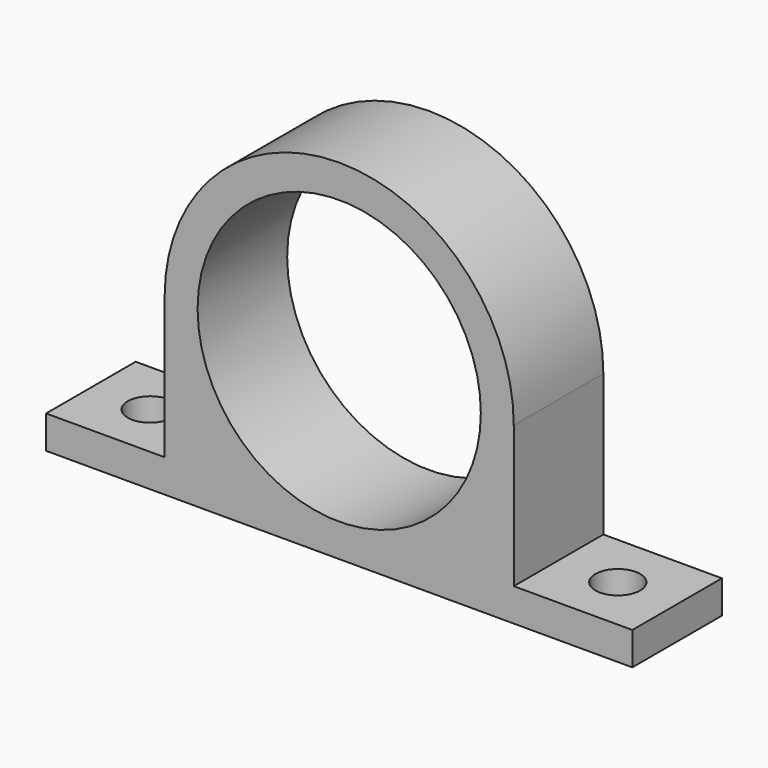
from build123d import *

# Parameters (mm, degrees)
F0_R     = 21.5
F1_DEPTH = 17
F2_R     = 3.4
F3_DEPTH = 53.001


with BuildPart() as f1:
    # F0 (on Front) → F1 (new body)
    with BuildSketch(Plane.XZ):
        with BuildLine():
            Line((-44.5, -21.5), (-44.5, -26.5))
            Line((-44.5, -26.5), (44.5, -26.5))
            Line((44.5, -26.5), (44.5, -21.5))
            Line((44.5, -21.5), (26.5, -21.5))
            Line((26.5, -21.5), (26.5, 0))
            ThreePointArc((26.5, 0), (0, 26.5), (-26.5, 0))
            Line((-26.5, 0), (-26.5, -21.5))
            Line((-26.5, -21.5), (-44.5, -21.5))
        make_face()
        Circle(F0_R, mode=Mode.SUBTRACT)
    extrude(amount=F1_DEPTH)

    # F2 (on face) → F3 (cut, through all)
    with BuildSketch(Plane(origin=(0, 0, -26.5), x_dir=(1, 0, 0), z_dir=(0, 0, -1))):
        with Locations((-35.5, 8.5)):
            Circle(F2_R)
        with Locations((35.5, 8.5)):
            Circle(F2_R)
    extrude(amount=-F3_DEPTH, mode=Mode.SUBTRACT)


solid = f1.part
